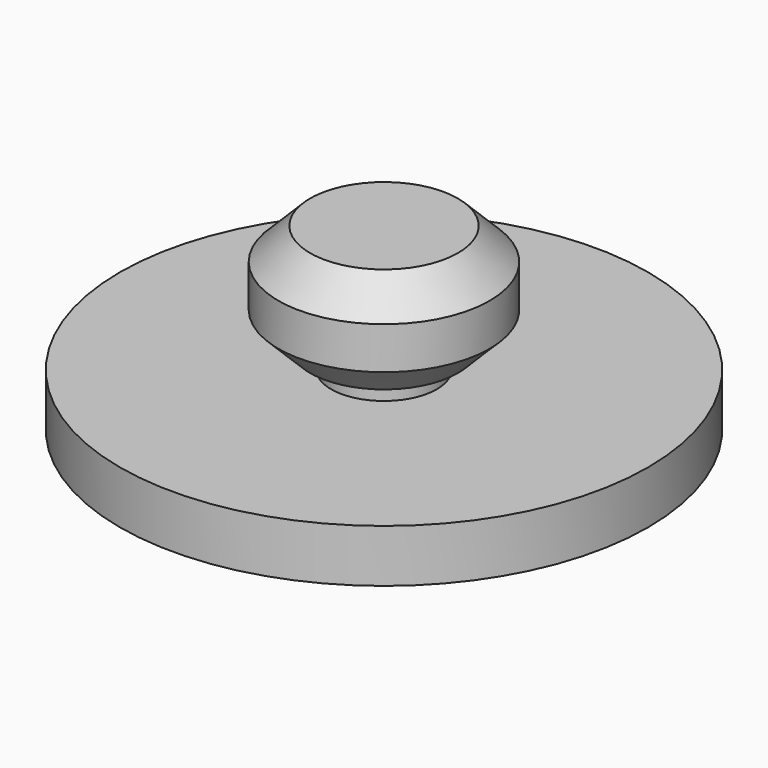
from build123d import *

# Parameters (mm, degrees)
F0_W           = 27
F0_H           = 27
F1_DEPTH       = 2
F3_W           = 47
F3_H           = 50
F4_DEPTH       = 2
F6_DEPTH       = 2
F7_DEPTH       = 3
F8_W           = 8
F8_H           = 5
F9_DEPTH       = 2
F10_W          = 8
F10_H          = 5
F11_DEPTH      = 3
F12_W          = 4
F12_H          = 22
F13_DEPTH      = 6
F14_W          = 7
F14_H          = 5
F15_DEPTH      = 4
F16_R          = 50
F16_R_2        = 47.5
F17_DEPTH      = 30
F17_DEPTH_BACK = 20
F18_SIZE       = 15
F19_R          = 25
F20_DEPTH      = 10
F21_R          = 125
F21_R_2        = 25
F22_DEPTH      = 25


with BuildPart() as f1:
    # F0 (on Top) → F1 (new body)
    with BuildSketch(Plane.XY):
        Rectangle(F0_W, F0_H)
    extrude(amount=-F1_DEPTH)


with BuildPart() as f4:
    # F3 (on offset) → F4 (new body)
    with BuildSketch(Plane(origin=(0, 0, -5), x_dir=(1, 0, 0), z_dir=(0, 0, -1))):
        with Locations((0, -22)):
            Rectangle(F3_W, F3_H)
    extrude(amount=F4_DEPTH)

    # F5 (on face) → F6 (join)
    with BuildSketch(Plane.XY.offset(-5)):
        Polygon((32, -21), (32, -3), (23.5, -3), (-23.5, -3), (-32, -3), (-32, -21), align=None)
    extrude(amount=-F6_DEPTH)

    # F8 (on face) → F9 (join)
    with BuildSketch(Plane.XY.offset(-5)):
        with Locations((0.5, 44.5)):
            Rectangle(F8_W, F8_H)
    extrude(amount=F9_DEPTH)

    # F10 (on face) → F11 (join)
    with BuildSketch(Plane.XY.offset(-5)):
        with Locations((11.5, 44.5)):
            Rectangle(F10_W, F10_H)
        with Locations((11.5, 49.5)):
            Rectangle(F10_W, F10_H)
    extrude(amount=F11_DEPTH)

    # F12 (on face) → F13 (join)
    with BuildSketch(Plane.XY.offset(-5)):
        with Locations((19.5, 30)):
            Rectangle(F12_W, F12_H)
    extrude(amount=F13_DEPTH)


with BuildPart() as f7:
    # F7 (new, through all): a face of the model
    f7_faces = [f1.part.faces().sort_by_distance(p)[0] for p in [
        (0, 0, -2),
    ]]
    extrude(f7_faces, amount=F7_DEPTH)


with BuildPart() as f1_1:
    add(f1.part)

    add(f4.part)  # F15 merges F4

    add(f7.part)  # F15 merges F7
    # F14 (on face) → F15 (join)
    with BuildSketch(Plane.XY.offset(-5)):
        with Locations((-14, 44.5)):
            Rectangle(F14_W, F14_H)
    extrude(amount=F15_DEPTH)


with BuildPart() as f17:
    # F16 (on face) → F17 (new body, two sides)
    with BuildSketch(Plane(origin=(0, 0, -7), x_dir=(1, 0, 0), z_dir=(0, 0, -1))) as f17_sk:
        with Locations((0, -9.53125)):
            Circle(F16_R)
        with Locations((0, -9.53125)):
            Circle(F16_R_2, mode=Mode.SUBTRACT)
        with Locations((0, -9.53125)):
            Circle(F16_R_2)
        Polygon((32, 21), (32, 3), (23.5, 3), (23.5, -47), (-23.5, -47), (-23.5, 3), (-32, 3), (-32, 21), align=None, mode=Mode.SUBTRACT)
        Polygon((23.5, 3), (32, 3), (32, 21), (-32, 21), (-32, 3), (-23.5, 3), (-23.5, -47), (23.5, -47), align=None)
    extrude(amount=F17_DEPTH)
    extrude(f17_sk.sketch, amount=-F17_DEPTH_BACK)

    # F18
    f18_edges = [f17.edges().sort_by_distance(p)[0] for p in [
        (-50, 9.53125, 13),
        (-50, 9.53125, -37),
    ]]
    chamfer(f18_edges, length=F18_SIZE)


with BuildPart() as f20:
    # F19 (on face) → F20 (new body)
    with BuildSketch(Plane(origin=(0, 0, -37), x_dir=(1, 0, 0), z_dir=(0, 0, -1))):
        with Locations((0, -9.53125)):
            Circle(F19_R)
    extrude(amount=F20_DEPTH)

    # F21 (on face) → F22 (join)
    with BuildSketch(Plane(origin=(0, 0, -47), x_dir=(1, 0, 0), z_dir=(0, 0, -1))):
        with Locations((0, -9.53125)):
            Circle(F21_R)
        with Locations((0, -9.53125)):
            Circle(F21_R_2, mode=Mode.SUBTRACT)
        with Locations((0, -9.53125)):
            Circle(F21_R_2)
    extrude(amount=F22_DEPTH)


solid = Compound([f1_1.part, f17.part, f20.part])
